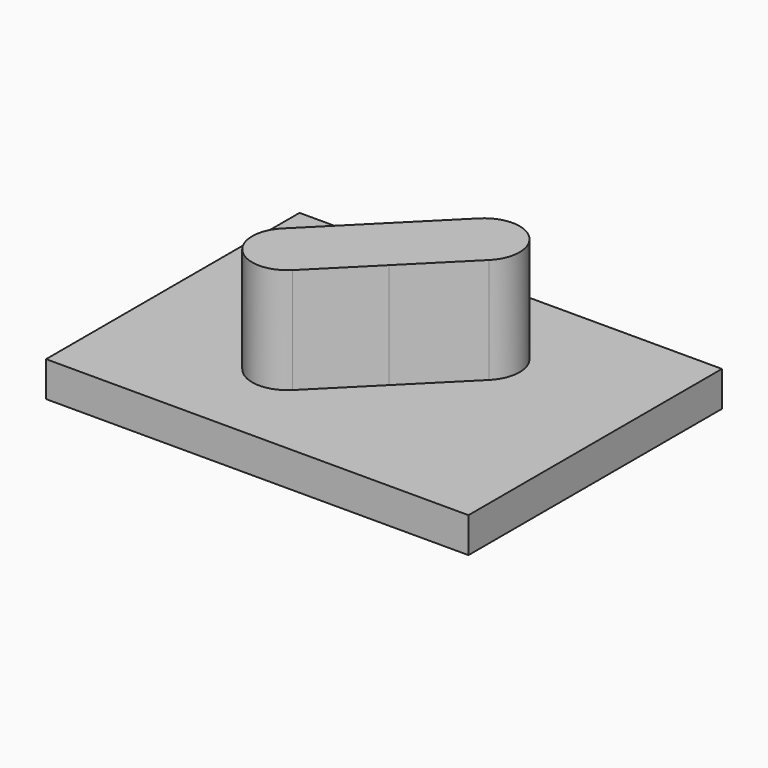
from build123d import *

# Parameters (mm, degrees)
F0_W     = 152.4
F0_H     = 114.3
F1_DEPTH = 12.7
F2_DEPTH = 50.8


with BuildPart() as f1:
    # F0 (on Top) → F1 (new body)
    with BuildSketch(Plane.XY):
        with Locations((0, 0.099638)):
            Rectangle(F0_W, F0_H)
        with BuildLine():
            Line((-28.260375, -10.299862), (-8.980256, 8.980256))
            Line((-8.980256, 8.980256), (11.128381, 29.088893))
            ThreePointArc((11.128381, 29.088893), (29.213265, 29.088893), (29.213265, 11.004009))
            Line((29.213265, 11.004009), (9.104628, -9.104628))
            Line((9.104628, -9.104628), (-10.175491, -28.384746))
            ThreePointArc((-10.175491, -28.384746), (-28.260375, -28.384746), (-28.260375, -10.299862))
        make_face(mode=Mode.SUBTRACT)
        with BuildLine():
            Line((11.128381, 29.088893), (-8.980256, 8.980256))
            Line((-8.980256, 8.980256), (-28.260375, -10.299862))
            ThreePointArc((-28.260375, -10.299862), (-28.260375, -28.384746), (-10.175491, -28.384746))
            Line((-10.175491, -28.384746), (9.104628, -9.104628))
            Line((9.104628, -9.104628), (29.213265, 11.004009))
            ThreePointArc((29.213265, 11.004009), (29.213265, 29.088893), (11.128381, 29.088893))
        make_face()
    extrude(amount=F1_DEPTH)

    # F0 (on Top) → F2 (join)
    with BuildSketch(Plane.XY):
        with BuildLine():
            Line((11.128381, 29.088893), (-8.980256, 8.980256))
            Line((-8.980256, 8.980256), (-28.260375, -10.299862))
            ThreePointArc((-28.260375, -10.299862), (-28.260375, -28.384746), (-10.175491, -28.384746))
            Line((-10.175491, -28.384746), (9.104628, -9.104628))
            Line((9.104628, -9.104628), (29.213265, 11.004009))
            ThreePointArc((29.213265, 11.004009), (29.213265, 29.088893), (11.128381, 29.088893))
        make_face()
    extrude(amount=F2_DEPTH)


solid = f1.part
